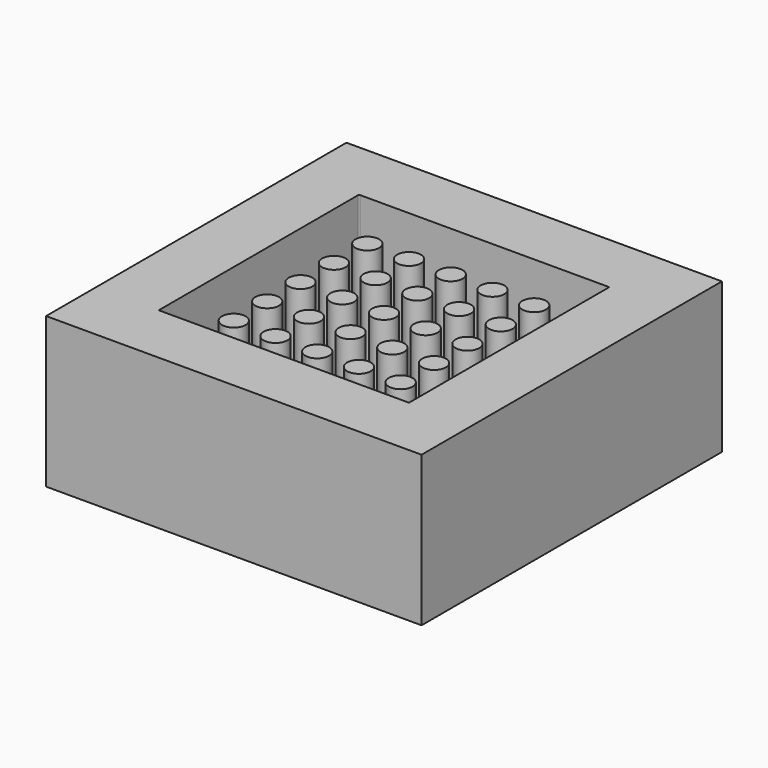
from build123d import *

# Parameters (mm, degrees)
F0_W     = 190.5
F0_H     = 190.5
F1_DEPTH = 76.2
F2_W     = 127
F2_H     = 127
F3_DEPTH = 50.8
F4_R     = 6
F5_DEPTH = 44.45
F6_R     = 0.5


with BuildPart() as f1:
    # F0 (on Top) → F1 (new body)
    with BuildSketch(Plane.XY):
        Rectangle(F0_W, F0_H)
    extrude(amount=F1_DEPTH)

    # F2 (on face) → F3 (cut)
    with BuildSketch(Plane.XY.offset(76.2)):
        Rectangle(F2_W, F2_H)
    extrude(amount=-F3_DEPTH, mode=Mode.SUBTRACT)

    # F4 (on face) → F5 (join)
    with BuildSketch(Plane.XY.offset(25.4)):
        with Locations((-42.3333414078, -42.333333838)):
            Circle(F4_R)
        with Locations((-42.3333414078, -21.1666752458)):
            Circle(F4_R)
        with Locations((-42.3333414078, -1.66535e-05)):
            Circle(F4_R)
        with Locations((-42.3333414078, 21.1666419387)):
            Circle(F4_R)
        with Locations((-42.3333414078, 42.3333005309)):
            Circle(F4_R)
        with Locations((-21.1666828156, -42.333333838)):
            Circle(F4_R)
        with Locations((-21.1666828156, -21.1666752458)):
            Circle(F4_R)
        with Locations((-21.1666828156, -1.66535e-05)):
            Circle(F4_R)
        with Locations((-21.1666828156, 21.1666419387)):
            Circle(F4_R)
        with Locations((-21.1666828156, 42.3333005309)):
            Circle(F4_R)
        with Locations((-2.42233e-05, -42.333333838)):
            Circle(F4_R)
        with Locations((-2.42233e-05, -21.1666752458)):
            Circle(F4_R)
        with Locations((-2.42233e-05, -1.66535e-05)):
            Circle(F4_R)
        with Locations((-2.42233e-05, 21.1666419387)):
            Circle(F4_R)
        with Locations((-2.42233e-05, 42.3333005309)):
            Circle(F4_R)
        with Locations((21.1666343689, -42.333333838)):
            Circle(F4_R)
        with Locations((21.1666343689, -21.1666752458)):
            Circle(F4_R)
        with Locations((21.1666343689, -1.66535e-05)):
            Circle(F4_R)
        with Locations((21.1666343689, 21.1666419387)):
            Circle(F4_R)
        with Locations((21.1666343689, 42.3333005309)):
            Circle(F4_R)
        with Locations((42.3332929611, -42.333333838)):
            Circle(F4_R)
        with Locations((42.3332929611, -21.1666752458)):
            Circle(F4_R)
        with Locations((42.3332929611, -1.66535e-05)):
            Circle(F4_R)
        with Locations((42.3332929611, 21.1666419387)):
            Circle(F4_R)
        with Locations((42.3332929611, 42.3333005309)):
            Circle(F4_R)
    extrude(amount=F5_DEPTH)

    # F6
    f6_edges = [f1.edges().sort_by_distance(p)[0] for p in [
        (63.5, 0, 25.4),
        (0, -63.5, 25.4),
        (0, 63.5, 25.4),
        (-63.5, 0, 25.4),
        (-48.333341, -42.333334, 25.4),
        (-27.166683, -42.333334, 25.4),
        (-48.333341, -21.166675, 25.4),
        (-27.166683, -21.166675, 25.4),
        (-6.000024, -42.333334, 25.4),
        (15.166634, -42.333334, 25.4),
        (36.333293, -42.333334, 25.4),
        (-6.000024, -21.166675, 25.4),
        (15.166634, -21.166675, 25.4),
        (36.333293, -21.166675, 25.4),
        (-48.333341, -1.7e-05, 25.4),
        (-48.333341, 21.166642, 25.4),
        (-27.166683, -1.7e-05, 25.4),
        (-27.166683, 21.166642, 25.4),
        (-48.333341, 42.333301, 25.4),
        (-27.166683, 42.333301, 25.4),
        (-6.000024, -1.7e-05, 25.4),
        (15.166634, -1.7e-05, 25.4),
        (-6.000024, 21.166642, 25.4),
        (15.166634, 21.166642, 25.4),
        (36.333293, -1.7e-05, 25.4),
        (36.333293, 21.166642, 25.4),
        (-6.000024, 42.333301, 25.4),
        (15.166634, 42.333301, 25.4),
        (36.333293, 42.333301, 25.4),
        (63.5, 63.5, 50.8),
        (-63.5, 63.5, 50.8),
        (-63.5, -63.5, 50.8),
        (63.5, -63.5, 50.8),
    ]]
    fillet(f6_edges, radius=F6_R)


solid = f1.part
